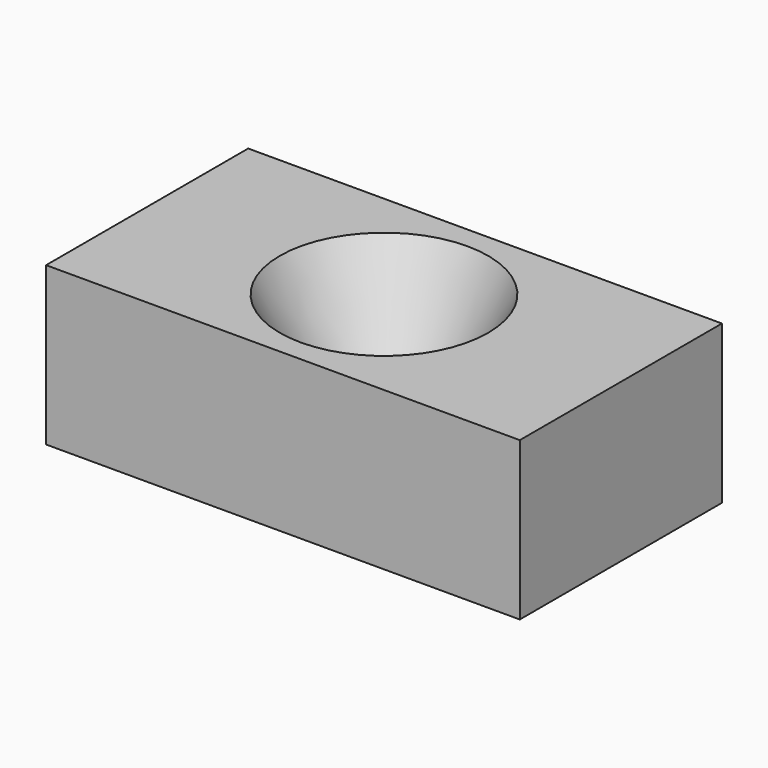
from build123d import *

# Parameters (mm, degrees)
CYLINDER042_R     = 1.8
CYLINDER042_DEPTH = 10
BOX021_W          = 15
BOX021_H          = 8
BOX021_DEPTH      = 5


with BuildPart() as cylinder007:
    # Cylinder042 → Cylinder042 (new body)
    with BuildSketch(Plane(origin=(7.5, 4, 0), x_dir=(1, 0, 0), z_dir=(0, 0, 1))):
        Circle(CYLINDER042_R)
    extrude(amount=CYLINDER042_DEPTH)


with BuildPart() as fusion015:
    # Cone → Cone (revolve)
    with BuildSketch(Plane(origin=(7.5, 4, 2), x_dir=(1, 0, 0), z_dir=(0, -1, 0))):
        Polygon((0, 0), (1.8, 0), (3.3, 3), (0, 3), align=None)
    revolve(axis=Axis((7.5, 4, 2), (0, 0, 1)))

    # Fusion015: union Cylinder007
    add(cylinder007.part)


with BuildPart() as bottom_stop_trigger_cut:
    # Box021 → Box021 (new body)
    with BuildSketch(Plane.XY):
        with Locations((7.5, 4)):
            Rectangle(BOX021_W, BOX021_H)
    extrude(amount=BOX021_DEPTH)

    # Cut015: cut Fusion015
    add(fusion015.part, mode=Mode.SUBTRACT)


solid = bottom_stop_trigger_cut.part
